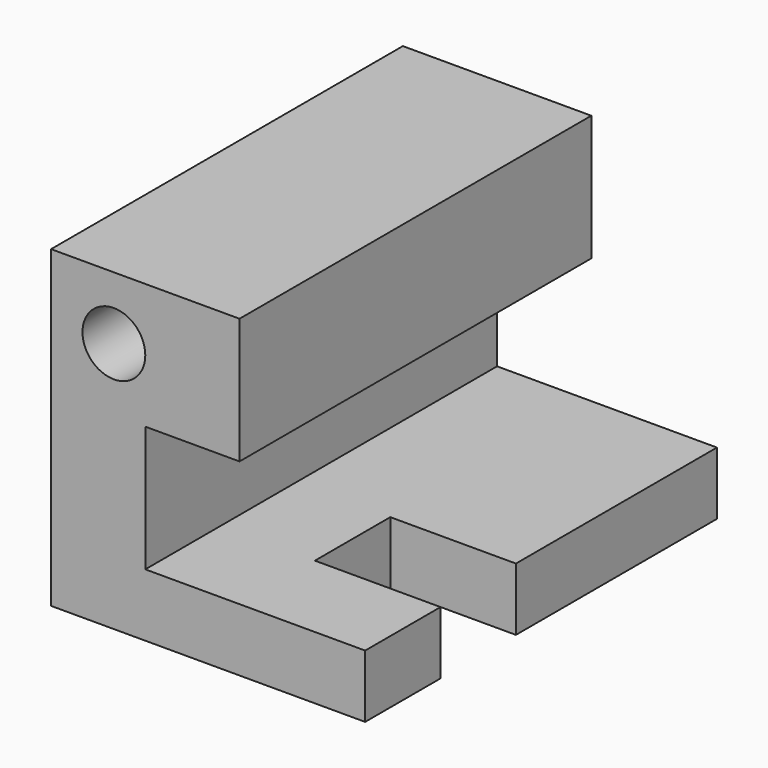
from build123d import *

# Parameters (mm, degrees)
F1_DEPTH = 70
F2_W     = 20
F2_H     = 15
F3_DEPTH = 25
F4_R     = 5
F5_DEPTH = 70.001


with BuildPart() as f1:
    # F0 (on Front) → F1 (new body)
    with BuildSketch(Plane.XZ):
        Polygon((0, 50), (0, 0), (50, 0), (50, 10), (15, 10), (15, 30), (30, 30), (30, 50), align=None)
    extrude(amount=F1_DEPTH)

    # F2 (on face) → F3 (cut)
    with BuildSketch(Plane.XY.offset(10)):
        with Locations((40, -47.5)):
            Rectangle(F2_W, F2_H)
    extrude(amount=-F3_DEPTH, mode=Mode.SUBTRACT)

    # F4 (on face) → F5 (cut, through all)
    with BuildSketch(Plane.XZ.offset(70)):
        with Locations((10, 40)):
            Circle(F4_R)
    extrude(amount=-F5_DEPTH, mode=Mode.SUBTRACT)


solid = f1.part
